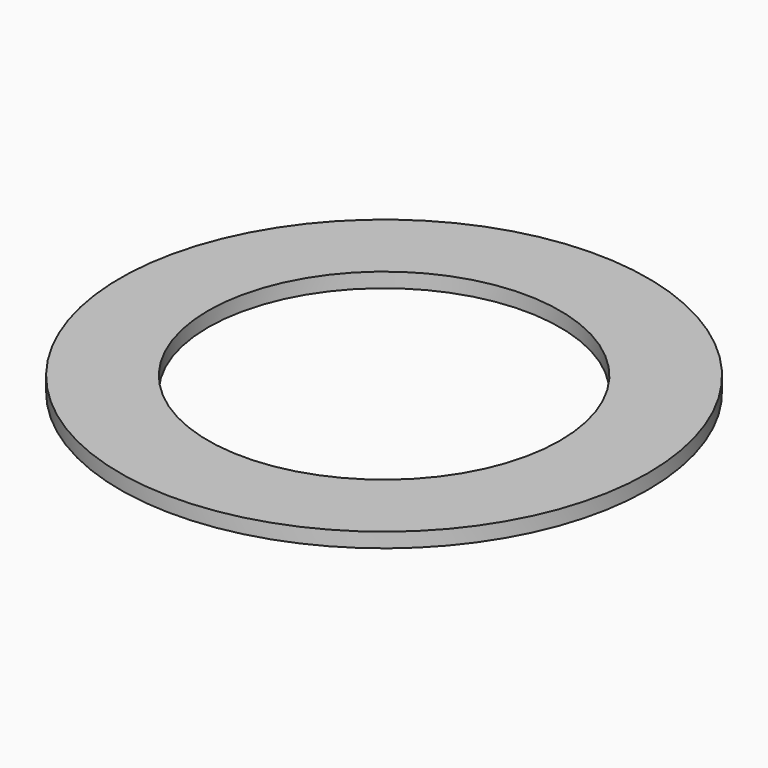
from build123d import *

# Parameters (mm, degrees)
SKETCH_R   = 9
SKETCH_R_2 = 6
PAD_DEPTH  = 0.5


with BuildPart() as part:
    # Sketch → Pad (new body)
    with BuildSketch(Plane.XY):
        Circle(SKETCH_R)
        Circle(SKETCH_R_2, mode=Mode.SUBTRACT)
    extrude(amount=PAD_DEPTH)


solid = part.part
